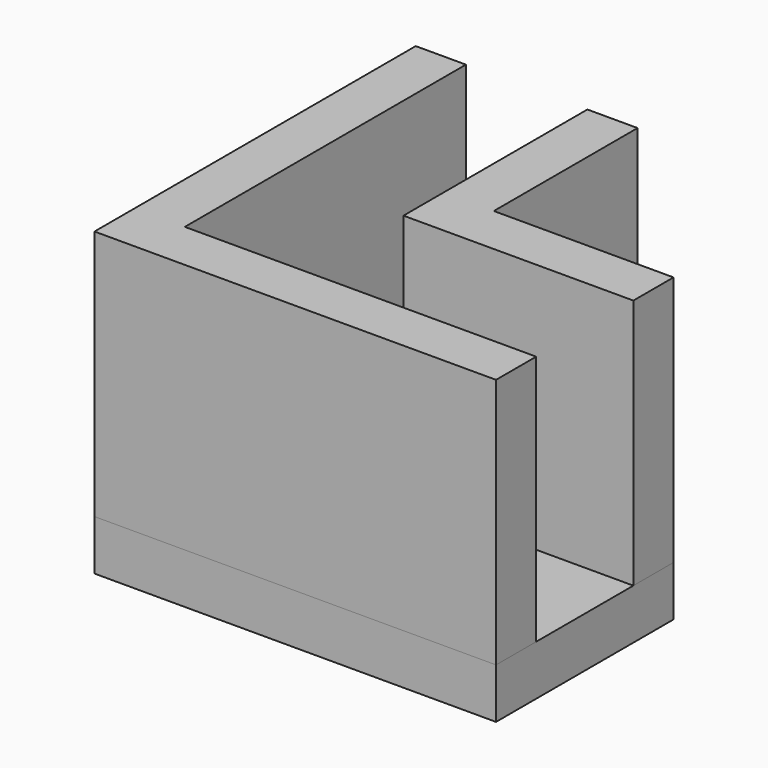
from build123d import *

# Parameters (mm, degrees)
F1_DEPTH = 30
F2_DEPTH = 5


with BuildPart() as f1:
    # F0 (on Top) → F1 (new body)
    with BuildSketch(Plane.XY):
        Polygon((35, 0), (0, 0), (0, 35), (-5, 35), (-5, -5), (35, -5), align=None)
        Polygon((12.1, 12.1), (35, 12.1), (35, 17.1), (17.1, 17.1), (17.1, 35), (12.1, 35), align=None)
    extrude(amount=F1_DEPTH)


with BuildPart() as f2:
    # F0 (on Top) → F2 (new body)
    with BuildSketch(Plane.XY):
        Polygon((0, 35), (0, 0), (35, 0), (35, 12.1), (12.1, 12.1), (12.1, 35), align=None)
        Polygon((35, 0), (0, 0), (0, 35), (-5, 35), (-5, -5), (35, -5), align=None)
        Polygon((12.1, 12.1), (35, 12.1), (35, 17.1), (17.1, 17.1), (17.1, 35), (12.1, 35), align=None)
    extrude(amount=F2_DEPTH)


solid = Compound([f1.part, f2.part])
